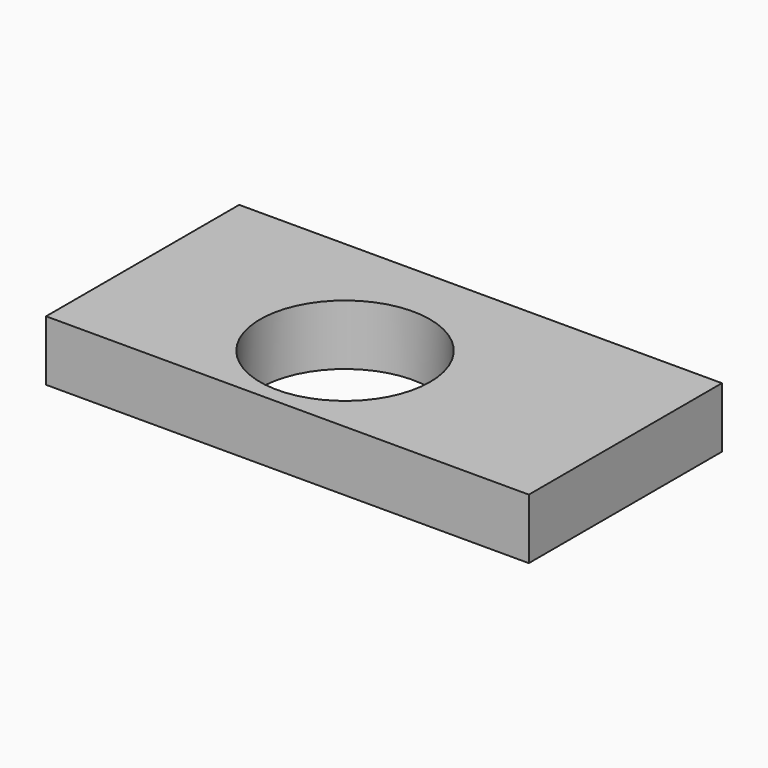
from build123d import *

# Parameters (mm, degrees)
F0_W     = 200
F0_H     = 100
F0_R     = 35.191304
F1_DEPTH = 25
F3_W     = 11.49768
F3_H     = 100
F4_DEPTH = 10
F5_W     = 11.49768
F5_H     = 100
F6_DEPTH = 10


with BuildPart() as f1:
    # F0 (on Top) → F1 (new body)
    with BuildSketch(Plane.XY):
        with Locations((9.423193, 8.395134)):
            Rectangle(F0_W, F0_H)
        Circle(F0_R, mode=Mode.SUBTRACT)
    extrude(amount=F1_DEPTH)

    # F3 (on face) → F4 (join)
    with BuildSketch(Plane.XY.offset(25)):
        with Locations((-66.680519, 8.395134)):
            Rectangle(F3_W, F3_H)
    extrude(amount=-F4_DEPTH)

    # F5 (on face) → F6 (join)
    with BuildSketch(Plane.XY.offset(25)):
        with Locations((-66.680519, 8.395134)):
            Rectangle(F5_W, F5_H)
    extrude(amount=-F6_DEPTH)


solid = f1.part
